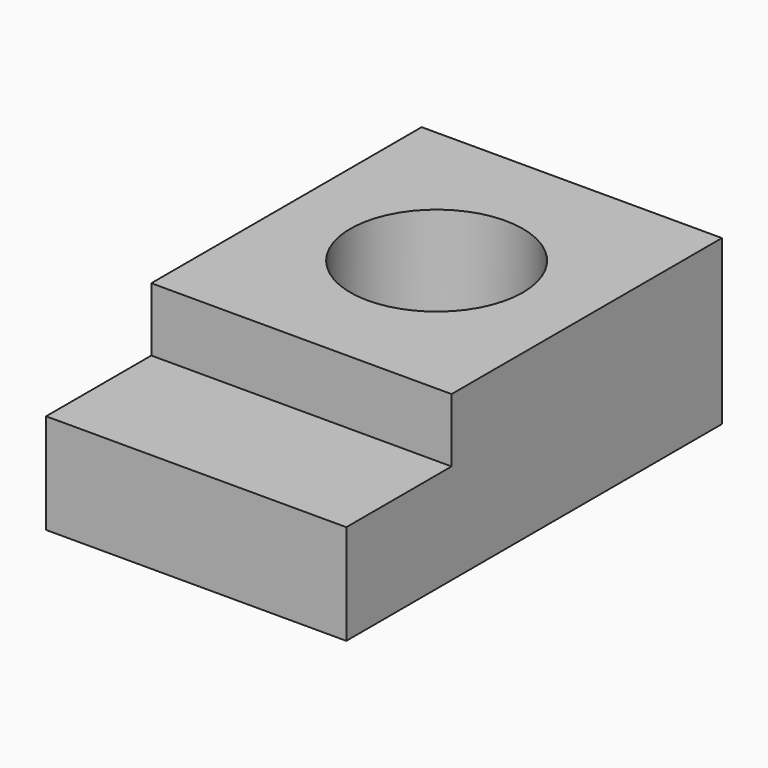
from build123d import *

# Parameters (mm, degrees)
F0_W     = 23.1
F0_H     = 36.12
F2_DEPTH = 7.7
F1_W     = 23.1
F1_H     = 26
F3_DEPTH = 12.6
F4_R     = 6.64
F5_DEPTH = 12.6


with BuildPart() as f2:
    # F0 (on Top) → F2 (new body)
    with BuildSketch(Plane.XY):
        Rectangle(F0_W, F0_H)
    extrude(amount=F2_DEPTH)

    # F1 (on Top) → F3 (join)
    with BuildSketch(Plane.XY):
        with Locations((0, 5.06)):
            Rectangle(F1_W, F1_H)
    extrude(amount=F3_DEPTH)

    # F4 (on Top) → F5 (cut)
    with BuildSketch(Plane.XY):
        with Locations((0, 5.06)):
            Circle(F4_R)
    extrude(amount=F5_DEPTH, mode=Mode.SUBTRACT)


solid = f2.part
